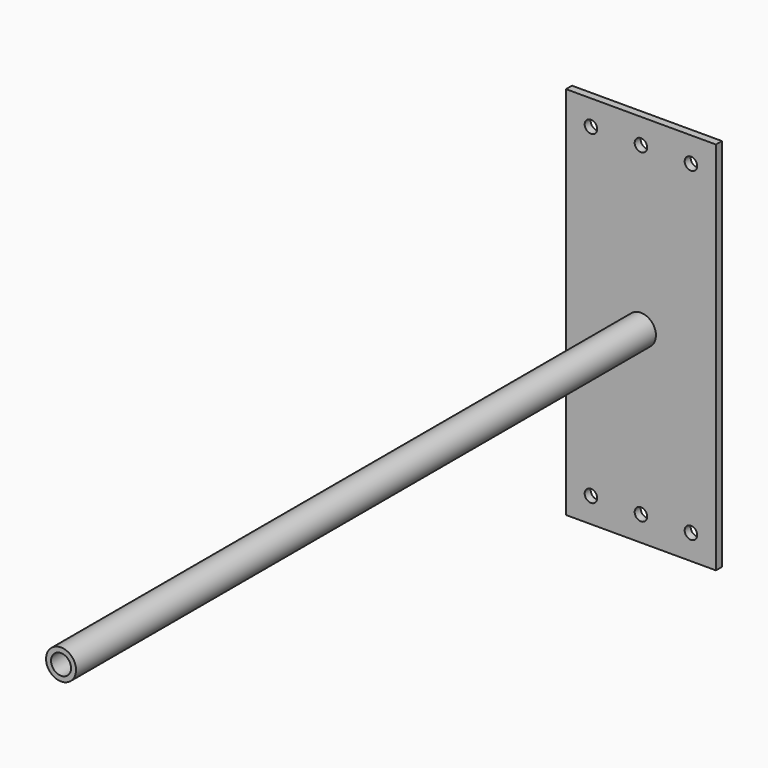
from build123d import *

# Parameters (mm, degrees)
F0_W     = 60
F0_H     = 150
F1_DEPTH = 3
F2_R     = 6
F2_R_2   = 4
F3_DEPTH = 290
F5_D     = 5


with BuildPart() as f1:
    # F0 (on Front) → F1 (new body)
    with BuildSketch(Plane.XZ):
        Rectangle(F0_W, F0_H)
    extrude(amount=F1_DEPTH)

    # F2 (on face) → F3 (join)
    with BuildSketch(Plane.XZ.offset(3)):
        Circle(F2_R)
        Circle(F2_R_2, mode=Mode.SUBTRACT)
    extrude(amount=F3_DEPTH)

    # F5 (through all)
    with Locations(Plane.XZ.offset(3)):
        with Locations((-20, 65), (0, 65), (20, 65), (20, -65), (0, -65), (-20, -65)):
            Hole(F5_D / 2)


solid = f1.part
